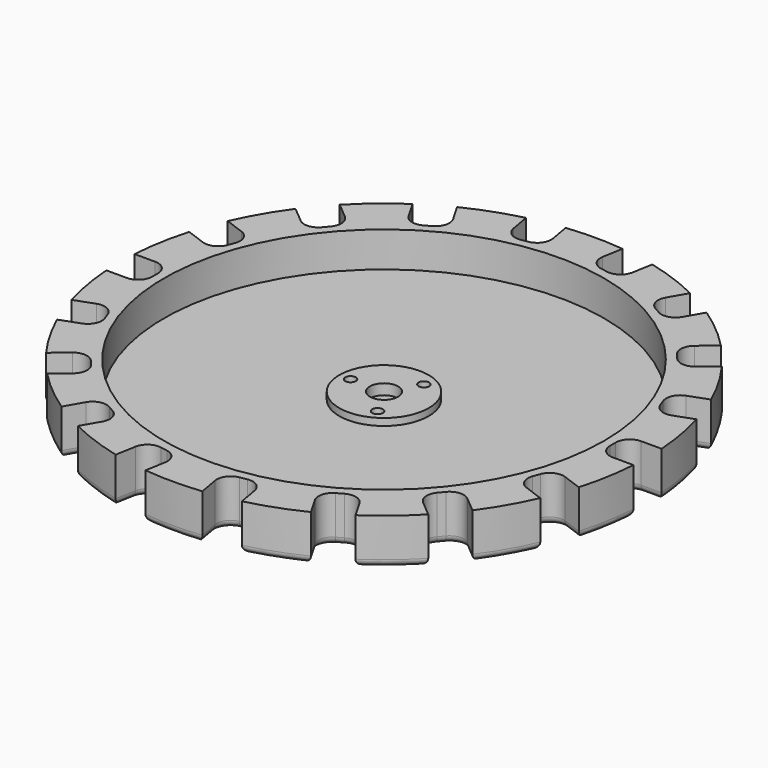
from build123d import *

# Parameters (mm, degrees)
F0_R     = 62.5
F0_R_2   = 12.7
F0_R_3   = 1.5
F0_R_4   = 4
F1_DEPTH = 3
F2_DEPTH = 13
F3_DEPTH = 5
F4_DEPTH = 2
F5_R     = 2


with BuildPart() as f1:
    # F0 (on Top) → F1 (new body)
    with BuildSketch(Plane.XY):
        Circle(F0_R)
        Circle(F0_R_2, mode=Mode.SUBTRACT)
        Circle(F0_R_2)
        with Locations((-4.75, -8.227241)):
            Circle(F0_R_3, mode=Mode.SUBTRACT)
        with Locations((4.75, -8.227241)):
            Circle(F0_R_3, mode=Mode.SUBTRACT)
        with Locations((-9.5, 0)):
            Circle(F0_R_3, mode=Mode.SUBTRACT)
        with Locations((-4.75, 8.227241)):
            Circle(F0_R_3, mode=Mode.SUBTRACT)
        Circle(F0_R_4, mode=Mode.SUBTRACT)
        with Locations((4.75, 8.227241)):
            Circle(F0_R_3, mode=Mode.SUBTRACT)
        with Locations((9.5, 0)):
            Circle(F0_R_3, mode=Mode.SUBTRACT)
        with Locations((9.5, 0)):
            Circle(F0_R_3)
        with Locations((4.75, 8.227241)):
            Circle(F0_R_3)
        with Locations((-4.75, 8.227241)):
            Circle(F0_R_3)
        with Locations((-9.5, 0)):
            Circle(F0_R_3)
        with Locations((-4.75, -8.227241)):
            Circle(F0_R_3)
        with Locations((4.75, -8.227241)):
            Circle(F0_R_3)
    extrude(amount=F1_DEPTH)

    # F0 (on Top) → F2 (join)
    with BuildSketch(Plane.XY):
        with BuildLine():
            Line((69, 5), (74.833148, 5))
            ThreePointArc((74.833148, 5), (73.860581, 13.023613), (72.030257, 20.895981))
            Line((72.030257, 20.895981), (66.548892, 18.900927))
            ThreePointArc((66.548892, 18.900927), (63.490338, 19.034466), (61.42204, 21.291617))
            Line((61.42204, 21.291617), (60.738, 23.171002))
            ThreePointArc((60.738, 23.171002), (60.87154, 26.229556), (63.12869, 28.297853))
            Line((63.12869, 28.297853), (68.610056, 30.292907))
            ThreePointArc((68.610056, 30.292907), (64.951905, 37.5), (60.539455, 44.271598))
            Line((60.539455, 44.271598), (56.071005, 40.522123))
            ThreePointArc((56.071005, 40.522123), (53.151231, 39.601522), (50.435676, 41.01515))
            Line((50.435676, 41.01515), (49.150101, 42.547239))
            ThreePointArc((49.150101, 42.547239), (48.2295, 45.467012), (49.643129, 48.182567))
            Line((49.643129, 48.182567), (54.111579, 51.932042))
            ThreePointArc((54.111579, 51.932042), (48.209071, 57.453333), (41.746701, 62.307407))
            Line((41.746701, 62.307407), (38.830127, 57.255753))
            ThreePointArc((38.830127, 57.255753), (36.401302, 55.39205), (33.366025, 55.791651))
            Line((33.366025, 55.791651), (31.633975, 56.791651))
            ThreePointArc((31.633975, 56.791651), (29.770271, 59.220477), (30.169873, 62.255753))
            Line((30.169873, 62.255753), (33.086447, 67.307407))
            ThreePointArc((33.086447, 67.307407), (25.651511, 70.476947), (17.918678, 72.828023))
            Line((17.918678, 72.828023), (16.905763, 67.083494))
            ThreePointArc((16.905763, 67.083494), (15.260838, 64.501479), (12.271939, 63.838856))
            Line((12.271939, 63.838856), (10.302324, 64.186152))
            ThreePointArc((10.302324, 64.186152), (7.720308, 65.831077), (7.057685, 68.819976))
            Line((7.057685, 68.819976), (8.070601, 74.564505))
            ThreePointArc((8.070601, 74.564505), (0, 75), (-8.070601, 74.564505))
            Line((-8.070601, 74.564505), (-7.057685, 68.819976))
            ThreePointArc((-7.057685, 68.819976), (-7.720308, 65.831077), (-10.302324, 64.186152))
            Line((-10.302324, 64.186152), (-12.271939, 63.838856))
            ThreePointArc((-12.271939, 63.838856), (-15.260838, 64.501479), (-16.905763, 67.083494))
            Line((-16.905763, 67.083494), (-17.918678, 72.828023))
            ThreePointArc((-17.918678, 72.828023), (-25.651511, 70.476947), (-33.086447, 67.307407))
            Line((-33.086447, 67.307407), (-30.169873, 62.255753))
            ThreePointArc((-30.169873, 62.255753), (-29.770271, 59.220477), (-31.633975, 56.791651))
            Line((-31.633975, 56.791651), (-33.366025, 55.791651))
            ThreePointArc((-33.366025, 55.791651), (-36.401302, 55.39205), (-38.830127, 57.255753))
            Line((-38.830127, 57.255753), (-41.746701, 62.307407))
            ThreePointArc((-41.746701, 62.307407), (-48.209071, 57.453333), (-54.111579, 51.932042))
            Line((-54.111579, 51.932042), (-49.643129, 48.182567))
            ThreePointArc((-49.643129, 48.182567), (-48.2295, 45.467012), (-49.150101, 42.547239))
            Line((-49.150101, 42.547239), (-50.435676, 41.01515))
            ThreePointArc((-50.435676, 41.01515), (-53.151231, 39.601522), (-56.071005, 40.522123))
            Line((-56.071005, 40.522123), (-60.539455, 44.271598))
            ThreePointArc((-60.539455, 44.271598), (-64.951905, 37.5), (-68.610056, 30.292907))
            Line((-68.610056, 30.292907), (-63.12869, 28.297853))
            ThreePointArc((-63.12869, 28.297853), (-60.87154, 26.229556), (-60.738, 23.171002))
            Line((-60.738, 23.171002), (-61.42204, 21.291617))
            ThreePointArc((-61.42204, 21.291617), (-63.490338, 19.034466), (-66.548892, 18.900927))
            Line((-66.548892, 18.900927), (-72.030257, 20.895981))
            ThreePointArc((-72.030257, 20.895981), (-73.860581, 13.023613), (-74.833148, 5))
            Line((-74.833148, 5), (-69, 5))
            ThreePointArc((-69, 5), (-66.171573, 3.828427), (-65, 1))
            Line((-65, 1), (-65, -1))
            ThreePointArc((-65, -1), (-66.171573, -3.828427), (-69, -5))
            Line((-69, -5), (-74.833148, -5))
            ThreePointArc((-74.833148, -5), (-73.860581, -13.023613), (-72.030257, -20.895981))
            Line((-72.030257, -20.895981), (-66.548892, -18.900927))
            ThreePointArc((-66.548892, -18.900927), (-63.490338, -19.034466), (-61.42204, -21.291617))
            Line((-61.42204, -21.291617), (-60.738, -23.171002))
            ThreePointArc((-60.738, -23.171002), (-60.87154, -26.229556), (-63.12869, -28.297853))
            Line((-63.12869, -28.297853), (-68.610056, -30.292907))
            ThreePointArc((-68.610056, -30.292907), (-64.951905, -37.5), (-60.539455, -44.271598))
            Line((-60.539455, -44.271598), (-56.071005, -40.522123))
            ThreePointArc((-56.071005, -40.522123), (-53.151231, -39.601522), (-50.435676, -41.01515))
            Line((-50.435676, -41.01515), (-49.150101, -42.547239))
            ThreePointArc((-49.150101, -42.547239), (-48.2295, -45.467012), (-49.643129, -48.182567))
            Line((-49.643129, -48.182567), (-54.111579, -51.932042))
            ThreePointArc((-54.111579, -51.932042), (-48.209071, -57.453333), (-41.746701, -62.307407))
            Line((-41.746701, -62.307407), (-38.830127, -57.255753))
            ThreePointArc((-38.830127, -57.255753), (-36.401302, -55.39205), (-33.366025, -55.791651))
            Line((-33.366025, -55.791651), (-31.633975, -56.791651))
            ThreePointArc((-31.633975, -56.791651), (-29.770271, -59.220477), (-30.169873, -62.255753))
            Line((-30.169873, -62.255753), (-33.086447, -67.307407))
            ThreePointArc((-33.086447, -67.307407), (-25.651511, -70.476947), (-17.918678, -72.828023))
            Line((-17.918678, -72.828023), (-16.905763, -67.083494))
            ThreePointArc((-16.905763, -67.083494), (-15.260838, -64.501479), (-12.271939, -63.838856))
            Line((-12.271939, -63.838856), (-10.302324, -64.186152))
            ThreePointArc((-10.302324, -64.186152), (-7.720308, -65.831077), (-7.057685, -68.819976))
            Line((-7.057685, -68.819976), (-8.070601, -74.564505))
            ThreePointArc((-8.070601, -74.564505), (0, -75), (8.070601, -74.564505))
            Line((8.070601, -74.564505), (7.057685, -68.819976))
            ThreePointArc((7.057685, -68.819976), (7.720308, -65.831077), (10.302324, -64.186152))
            Line((10.302324, -64.186152), (12.271939, -63.838856))
            ThreePointArc((12.271939, -63.838856), (15.260838, -64.501479), (16.905763, -67.083494))
            Line((16.905763, -67.083494), (17.918678, -72.828023))
            ThreePointArc((17.918678, -72.828023), (25.651511, -70.476947), (33.086447, -67.307407))
            Line((33.086447, -67.307407), (30.169873, -62.255753))
            ThreePointArc((30.169873, -62.255753), (29.770271, -59.220477), (31.633975, -56.791651))
            Line((31.633975, -56.791651), (33.366025, -55.791651))
            ThreePointArc((33.366025, -55.791651), (36.401302, -55.39205), (38.830127, -57.255753))
            Line((38.830127, -57.255753), (41.746701, -62.307407))
            ThreePointArc((41.746701, -62.307407), (48.209071, -57.453333), (54.111579, -51.932042))
            Line((54.111579, -51.932042), (49.643129, -48.182567))
            ThreePointArc((49.643129, -48.182567), (48.2295, -45.467012), (49.150101, -42.547239))
            Line((49.150101, -42.547239), (50.435676, -41.01515))
            ThreePointArc((50.435676, -41.01515), (53.151231, -39.601522), (56.071005, -40.522123))
            Line((56.071005, -40.522123), (60.539455, -44.271598))
            ThreePointArc((60.539455, -44.271598), (64.951905, -37.5), (68.610056, -30.292907))
            Line((68.610056, -30.292907), (63.12869, -28.297853))
            ThreePointArc((63.12869, -28.297853), (60.87154, -26.229556), (60.738, -23.171002))
            Line((60.738, -23.171002), (61.42204, -21.291617))
            ThreePointArc((61.42204, -21.291617), (63.490338, -19.034466), (66.548892, -18.900927))
            Line((66.548892, -18.900927), (72.030257, -20.895981))
            ThreePointArc((72.030257, -20.895981), (73.860581, -13.023613), (74.833148, -5))
            Line((74.833148, -5), (69, -5))
            ThreePointArc((69, -5), (66.171573, -3.828427), (65, -1))
            Line((65, -1), (65, 1))
            ThreePointArc((65, 1), (66.171573, 3.828427), (69, 5))
        make_face()
        Circle(F0_R, mode=Mode.SUBTRACT)
    extrude(amount=F2_DEPTH)

    # F0 (on Top) → F3 (join)
    with BuildSketch(Plane.XY):
        Circle(F0_R_2)
        with Locations((-4.75, -8.227241)):
            Circle(F0_R_3, mode=Mode.SUBTRACT)
        with Locations((4.75, -8.227241)):
            Circle(F0_R_3, mode=Mode.SUBTRACT)
        with Locations((-9.5, 0)):
            Circle(F0_R_3, mode=Mode.SUBTRACT)
        with Locations((-4.75, 8.227241)):
            Circle(F0_R_3, mode=Mode.SUBTRACT)
        Circle(F0_R_4, mode=Mode.SUBTRACT)
        with Locations((4.75, 8.227241)):
            Circle(F0_R_3, mode=Mode.SUBTRACT)
        with Locations((9.5, 0)):
            Circle(F0_R_3, mode=Mode.SUBTRACT)
        with Locations((-4.75, 8.227241)):
            Circle(F0_R_3)
        with Locations((9.5, 0)):
            Circle(F0_R_3)
        with Locations((-4.75, -8.227241)):
            Circle(F0_R_3)
    extrude(amount=F3_DEPTH)

    # F0 (on Top) → F4 (join)
    with BuildSketch(Plane.XY):
        Circle(F0_R_4)
    extrude(amount=F4_DEPTH)

    # F5
    f5_edges = [f1.edges().sort_by_distance(p)[0] for p in [
        (71.916574, -5, 0),
        (66.171573, -3.828427, 0),
        (65, 0, 0),
        (66.171573, 3.828427, 0),
        (71.916574, 5, 0),
        (73.860581, 13.023613, 0),
        (69.289574, 19.898454, 0),
        (63.490338, 19.034466, 0),
        (61.08002, 22.231309, 0),
        (60.87154, 26.229556, 0),
        (65.869373, 29.29538, 0),
        (64.951905, 37.5, 0),
        (58.30523, 42.39686, 0),
        (53.151231, 39.601522, 0),
        (49.792889, 41.781195, 0),
        (48.2295, 45.467012, 0),
        (51.877354, 50.057305, 0),
        (48.209071, 57.453333, 0),
        (40.288414, 59.78158, 0),
        (36.401302, 55.39205, 0),
        (32.5, 56.291651, 0),
        (29.770271, 59.220477, 0),
        (31.62816, 64.78158, 0),
        (25.651511, 70.476947, 0),
        (17.412221, 69.955759, 0),
        (15.260838, 64.501479, 0),
        (11.287132, 64.012504, 0),
        (7.720308, 65.831077, 0),
        (7.564143, 71.69224, 0),
        (0, 75, 0),
        (-7.564143, 71.69224, 0),
        (-7.720308, 65.831077, 0),
        (-11.287132, 64.012504, 0),
        (-15.260838, 64.501479, 0),
        (-17.412221, 69.955759, 0),
        (-25.651511, 70.476947, 0),
        (-31.62816, 64.78158, 0),
        (-29.770271, 59.220477, 0),
        (-32.5, 56.291651, 0),
        (-36.401302, 55.39205, 0),
        (-40.288414, 59.78158, 0),
        (-48.209071, 57.453333, 0),
        (-51.877354, 50.057305, 0),
        (-48.2295, 45.467012, 0),
        (-49.792889, 41.781195, 0),
        (-53.151231, 39.601522, 0),
        (-58.30523, 42.39686, 0),
        (-64.951905, 37.5, 0),
        (-65.869373, 29.29538, 0),
        (-60.87154, 26.229556, 0),
        (-61.08002, 22.231309, 0),
        (-63.490338, 19.034466, 0),
        (-69.289574, 19.898454, 0),
        (-73.860581, 13.023613, 0),
        (-71.916574, 5, 0),
        (-66.171573, 3.828427, 0),
        (-65, 0, 0),
        (-66.171573, -3.828427, 0),
        (-71.916574, -5, 0),
        (-73.860581, -13.023613, 0),
        (-69.289574, -19.898454, 0),
        (-63.490338, -19.034466, 0),
        (-61.08002, -22.231309, 0),
        (-60.87154, -26.229556, 0),
        (-65.869373, -29.29538, 0),
        (-64.951905, -37.5, 0),
        (-58.30523, -42.39686, 0),
        (-53.151231, -39.601522, 0),
        (-49.792889, -41.781195, 0),
        (-48.2295, -45.467012, 0),
        (-51.877354, -50.057305, 0),
        (-48.209071, -57.453333, 0),
        (-40.288414, -59.78158, 0),
        (-36.401302, -55.39205, 0),
        (-32.5, -56.291651, 0),
        (-29.770271, -59.220477, 0),
        (-31.62816, -64.78158, 0),
        (-25.651511, -70.476947, 0),
        (-17.412221, -69.955759, 0),
        (-15.260838, -64.501479, 0),
        (-11.287132, -64.012504, 0),
        (-7.720308, -65.831077, 0),
        (-7.564143, -71.69224, 0),
        (0, -75, 0),
        (7.564143, -71.69224, 0),
        (7.720308, -65.831077, 0),
        (11.287132, -64.012504, 0),
        (15.260838, -64.501479, 0),
        (17.412221, -69.955759, 0),
        (25.651511, -70.476947, 0),
        (31.62816, -64.78158, 0),
        (29.770271, -59.220477, 0),
        (32.5, -56.291651, 0),
        (36.401302, -55.39205, 0),
        (40.288414, -59.78158, 0),
        (48.209071, -57.453333, 0),
        (51.877354, -50.057305, 0),
        (48.2295, -45.467012, 0),
        (49.792889, -41.781195, 0),
        (53.151231, -39.601522, 0),
        (58.30523, -42.39686, 0),
        (64.951905, -37.5, 0),
        (65.869373, -29.29538, 0),
        (60.87154, -26.229556, 0),
        (61.08002, -22.231309, 0),
        (63.490338, -19.034466, 0),
        (69.289574, -19.898454, 0),
        (73.860581, -13.023613, 0),
    ]]
    fillet(f5_edges, radius=F5_R)


solid = f1.part
